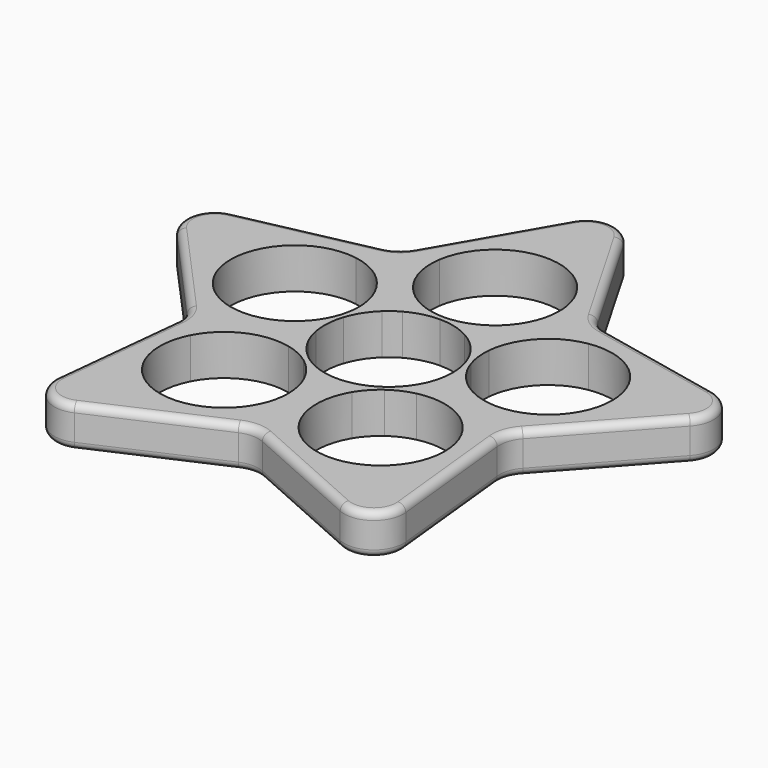
from build123d import *

# Parameters (mm, degrees)
F1_DEPTH = 6.985
F2_R     = 5.08
F3_R     = 5.08
F4_R     = 1.27
F5_R     = 1.27


with BuildPart() as f1:
    # F0 (on Top) → F1 (new body)
    with BuildSketch(Plane.XY):
        with BuildLine():
            Line((13.4412104934, -0.1712630266), (10.8124273162, -2.0811858017))
            ThreePointArc((10.8124273162, -2.0811858017), (10.4719881953, -3.4025552234), (9.9707277708, -4.6716706359))
            Line((9.9707277708, -4.6716706359), (10.9748335954, -7.7619906019))
            ThreePointArc((10.9748335954, -7.7619906019), (18.0702175637, -8.5055805227), (23.2204469124, -13.442435522))
            Line((23.2204469124, -13.442435522), (27.3287873031, -8.8796612689))
            Line((27.3287873031, -8.8796612689), (26.6870015238, -2.7734774636))
            ThreePointArc((26.6870015238, -2.7734774636), (19.6185678945, -3.7402481997), (13.4412104934, -0.1712630266))
        make_face()
        with BuildLine():
            ThreePointArc((5.3205491095, 9.6401076749), (6.4720446345, 8.9080052234), (7.5241471277, 8.0391))
            Line((7.5241471277, 8.0391), (10.7735018328, 8.0391))
            ThreePointArc((10.7735018328, 8.0391), (13.6732921003, 14.5574292363), (19.960028611, 17.9300163252))
            Line((19.960028611, 17.9300163252), (16.8901194246, 23.2472550106))
            Line((16.8901194246, 23.2472550106), (10.8844708144, 24.5237950298))
            ThreePointArc((10.8844708144, 24.5237950298), (10.9792472078, 23.6942958469), (11.0109, 22.86))
            ThreePointArc((11.0109, 22.86), (9.1860721795, 16.789086006), (4.3164432849, 12.7304276409))
            Line((4.3164432849, 12.7304276409), (5.3205491095, 9.6401076749))
        make_face()
        with BuildLine():
            ThreePointArc((32.7520519625, 7.0641284914), (31.1139363339, 1.2856484198), (26.6870015238, -2.7734774636))
            Line((26.6870015238, -2.7734774636), (27.3287873031, -8.8796612689))
            Line((27.3287873031, -8.8796612689), (49.9321790072, 16.2239484353))
            Line((49.9321790072, 16.2239484353), (16.8901194246, 23.2472550106))
            Line((16.8901194246, 23.2472550106), (19.960028611, 17.9300163252))
            ThreePointArc((19.960028611, 17.9300163252), (28.869551071, 15.4561392731), (32.7520519625, 7.0641284914))
        make_face()
        with BuildLine():
            Line((3.99068165, -12.8362740124), (1.3618984728, -10.9263512372))
            ThreePointArc((1.3618984728, -10.9263512372), (0, -11.0109), (-1.3618984728, -10.9263512372))
            Line((-1.3618984728, -10.9263512372), (-3.99068165, -12.8362740124))
            ThreePointArc((-3.99068165, -12.8362740124), (-2.8242814664, -15.5589985926), (-2.4258708674, -18.4941284914))
            ThreePointArc((-2.4258708674, -18.4941284914), (-3.2526978614, -22.6803649657), (-5.6090031852, -26.2378983694))
            Line((-5.6090031852, -26.2378983694), (0, -28.7351874834))
            Line((0, -28.7351874834), (5.6090031852, -26.2378983694))
            ThreePointArc((5.6090031852, -26.2378983694), (2.5052834618, -19.8141670934), (3.99068165, -12.8362740124))
        make_face()
        with BuildLine():
            Line((27.3287873031, -8.8796612689), (23.2204469124, -13.442435522))
            ThreePointArc((23.2204469124, -13.442435522), (24.1364670634, -15.8948170204), (24.4476708674, -18.4941284914))
            ThreePointArc((24.4476708674, -18.4941284914), (17.6230073417, -28.6782014974), (5.6090031852, -26.2378983694))
            Line((5.6090031852, -26.2378983694), (0, -28.7351874834))
            Line((0, -28.7351874834), (30.8597837588, -42.4748484353))
            Line((30.8597837588, -42.4748484353), (27.3287873031, -8.8796612689))
        make_face()
        with BuildLine():
            ThreePointArc((-7.5241471277, 8.0391), (-6.4720446345, 8.9080052234), (-5.3205491095, 9.6401076749))
            Line((-5.3205491095, 9.6401076749), (-4.3164432849, 12.7304276409))
            ThreePointArc((-4.3164432849, 12.7304276409), (-9.6196583076, 17.5025665796), (-10.8844708144, 24.5237950298))
            Line((-10.8844708144, 24.5237950298), (-16.8901194246, 23.2472550106))
            Line((-16.8901194246, 23.2472550106), (-19.960028611, 17.9300163252))
            ThreePointArc((-19.960028611, 17.9300163252), (-13.6732921003, 14.5574292363), (-10.7735018328, 8.0391))
            Line((-10.7735018328, 8.0391), (-7.5241471277, 8.0391))
        make_face()
        with BuildLine():
            Line((10.8844708144, 24.5237950298), (16.8901194246, 23.2472550106))
            Line((16.8901194246, 23.2472550106), (0, 52.5018))
            Line((0, 52.5018), (-16.8901194246, 23.2472550106))
            Line((-16.8901194246, 23.2472550106), (-10.8844708144, 24.5237950298))
            ThreePointArc((-10.8844708144, 24.5237950298), (0, 33.8709), (10.8844708144, 24.5237950298))
        make_face()
        with BuildLine():
            Line((-10.9748335954, -7.7619906019), (-9.9707277708, -4.6716706359))
            ThreePointArc((-9.9707277708, -4.6716706359), (-10.4719881953, -3.4025552234), (-10.8124273162, -2.0811858017))
            Line((-10.8124273162, -2.0811858017), (-13.4412104934, -0.1712630266))
            ThreePointArc((-13.4412104934, -0.1712630266), (-19.6185678945, -3.7402481997), (-26.6870015238, -2.7734774636))
            Line((-26.6870015238, -2.7734774636), (-27.3287873031, -8.8796612689))
            Line((-27.3287873031, -8.8796612689), (-23.2204469124, -13.442435522))
            ThreePointArc((-23.2204469124, -13.442435522), (-18.0702175637, -8.5055805227), (-10.9748335954, -7.7619906019))
        make_face()
        with BuildLine():
            Line((-30.8597837588, -42.4748484353), (0, -28.7351874834))
            Line((0, -28.7351874834), (-5.6090031852, -26.2378983694))
            ThreePointArc((-5.6090031852, -26.2378983694), (-19.9088155019, -27.4021337148), (-23.2204469124, -13.442435522))
            Line((-23.2204469124, -13.442435522), (-27.3287873031, -8.8796612689))
            Line((-27.3287873031, -8.8796612689), (-30.8597837588, -42.4748484353))
        make_face()
        with BuildLine():
            Line((-19.960028611, 17.9300163252), (-16.8901194246, 23.2472550106))
            Line((-16.8901194246, 23.2472550106), (-49.9321790072, 16.2239484353))
            Line((-49.9321790072, 16.2239484353), (-27.3287873031, -8.8796612689))
            Line((-27.3287873031, -8.8796612689), (-26.6870015238, -2.7734774636))
            ThreePointArc((-26.6870015238, -2.7734774636), (-32.2131401578, 10.4666837148), (-19.960028611, 17.9300163252))
        make_face()
        with BuildLine():
            Line((-11.2691637672, 3.661573268), (-10.4719881953, 3.4025552234))
            ThreePointArc((-10.4719881953, 3.4025552234), (-9.291910918, 5.9076484579), (-7.5241471277, 8.0391))
            Line((-7.5241471277, 8.0391), (-10.7735018328, 8.0391))
            ThreePointArc((-10.7735018328, 8.0391), (-10.7410697441, 7.5520936525), (-10.7302519625, 7.0641284914))
            ThreePointArc((-10.7302519625, 7.0641284914), (-10.865814413, 5.3416442403), (-11.2691637672, 3.661573268))
        make_face()
        with BuildLine():
            ThreePointArc((-10.8124273162, -2.0811858017), (-10.9897424822, 0.6822602039), (-10.4719881953, 3.4025552234))
            Line((-10.4719881953, 3.4025552234), (-11.2691637672, 3.661573268))
            ThreePointArc((-11.2691637672, 3.661573268), (-12.1615384867, 1.6354155258), (-13.4412104934, -0.1712630266))
            Line((-13.4412104934, -0.1712630266), (-10.8124273162, -2.0811858017))
        make_face()
        with BuildLine():
            ThreePointArc((-1.3618984728, -10.9263512372), (-4.0448852036, -10.2410362025), (-6.4720446345, -8.9080052234))
            Line((-6.4720446345, -8.9080052234), (-6.9647262329, -9.586123268))
            ThreePointArc((-6.9647262329, -9.586123268), (-5.3134946628, -11.0609392356), (-3.99068165, -12.8362740124))
            Line((-3.99068165, -12.8362740124), (-1.3618984728, -10.9263512372))
        make_face()
        with BuildLine():
            Line((-6.9647262329, -9.586123268), (-6.4720446345, -8.9080052234))
            ThreePointArc((-6.4720446345, -8.9080052234), (-8.4898659458, -7.0115686571), (-9.9707277708, -4.6716706359))
            Line((-9.9707277708, -4.6716706359), (-10.9748335954, -7.7619906019))
            ThreePointArc((-10.9748335954, -7.7619906019), (-8.877618186, -8.4714519209), (-6.9647262329, -9.586123268))
        make_face()
        with BuildLine():
            Line((10.9748335954, -7.7619906019), (9.9707277708, -4.6716706359))
            ThreePointArc((9.9707277708, -4.6716706359), (8.4898659458, -7.0115686571), (6.4720446345, -8.9080052234))
            Line((6.4720446345, -8.9080052234), (6.9647262329, -9.586123268))
            ThreePointArc((6.9647262329, -9.586123268), (8.877618186, -8.4714519209), (10.9748335954, -7.7619906019))
        make_face()
        with BuildLine():
            Line((6.9647262329, -9.586123268), (6.4720446345, -8.9080052234))
            ThreePointArc((6.4720446345, -8.9080052234), (4.0448852036, -10.2410362025), (1.3618984728, -10.9263512372))
            Line((1.3618984728, -10.9263512372), (3.99068165, -12.8362740124))
            ThreePointArc((3.99068165, -12.8362740124), (5.3134946628, -11.0609392356), (6.9647262329, -9.586123268))
        make_face()
        with BuildLine():
            ThreePointArc((10.4719881953, 3.4025552234), (10.8753375495, 1.7224842511), (11.0109, 0))
            ThreePointArc((11.0109, 0), (10.9611695258, -1.0453140374), (10.8124273162, -2.0811858017))
            Line((10.8124273162, -2.0811858017), (13.4412104934, -0.1712630266))
            ThreePointArc((13.4412104934, -0.1712630266), (12.1615384867, 1.6354155258), (11.2691637672, 3.661573268))
            Line((11.2691637672, 3.661573268), (10.4719881953, 3.4025552234))
        make_face()
        with BuildLine():
            ThreePointArc((7.5241471277, 8.0391), (9.291910918, 5.9076484579), (10.4719881953, 3.4025552234))
            Line((10.4719881953, 3.4025552234), (11.2691637672, 3.661573268))
            ThreePointArc((11.2691637672, 3.661573268), (10.8001644409, 5.8252940144), (10.7735018328, 8.0391))
            Line((10.7735018328, 8.0391), (7.5241471277, 8.0391))
        make_face()
        with BuildLine():
            ThreePointArc((0, 11.0109), (2.747149178, 10.6626961977), (5.3205491095, 9.6401076749))
            Line((5.3205491095, 9.6401076749), (4.3164432849, 12.7304276409))
            ThreePointArc((4.3164432849, 12.7304276409), (2.2027494775, 12.0716816162), (0, 11.8491))
            Line((0, 11.8491), (0, 11.0109))
        make_face()
        with BuildLine():
            ThreePointArc((-5.3205491095, 9.6401076749), (-2.747149178, 10.6626961977), (0, 11.0109))
            Line((0, 11.0109), (0, 11.8491))
            ThreePointArc((0, 11.8491), (-2.2027494775, 12.0716816162), (-4.3164432849, 12.7304276409))
            Line((-4.3164432849, 12.7304276409), (-5.3205491095, 9.6401076749))
        make_face()
    extrude(amount=F1_DEPTH)

    # F2
    f2_edges = [f1.edges().sort_by_distance(p)[0] for p in [
        (-49.932179, 16.223948, 3.4925),
        (0, 52.5018, 3.4925),
        (49.932179, 16.223948, 3.4925),
        (30.859784, -42.474848, 3.4925),
        (-30.859784, -42.474848, 3.4925),
    ]]
    fillet(f2_edges, radius=F2_R)

    # F3
    f3_edges = [f1.edges().sort_by_distance(p)[0] for p in [
        (-16.890119, 23.247255, 3.4925),
        (16.890119, 23.247255, 3.4925),
        (27.328787, -8.879661, 3.4925),
        (0, -28.735187, 3.4925),
        (-27.328787, -8.879661, 3.4925),
    ]]
    fillet(f3_edges, radius=F3_R)

    # F4
    f4_edges = [f1.edges().sort_by_distance(p)[0] for p in [
        (12.443943, -34.275588, 0),
    ]]
    fillet(f4_edges, radius=F4_R)

    # F5
    f5_edges = [f1.edges().sort_by_distance(p)[0] for p in [
        (-10.079324, 35.043899, 6.985),
    ]]
    fillet(f5_edges, radius=F5_R)


solid = f1.part
